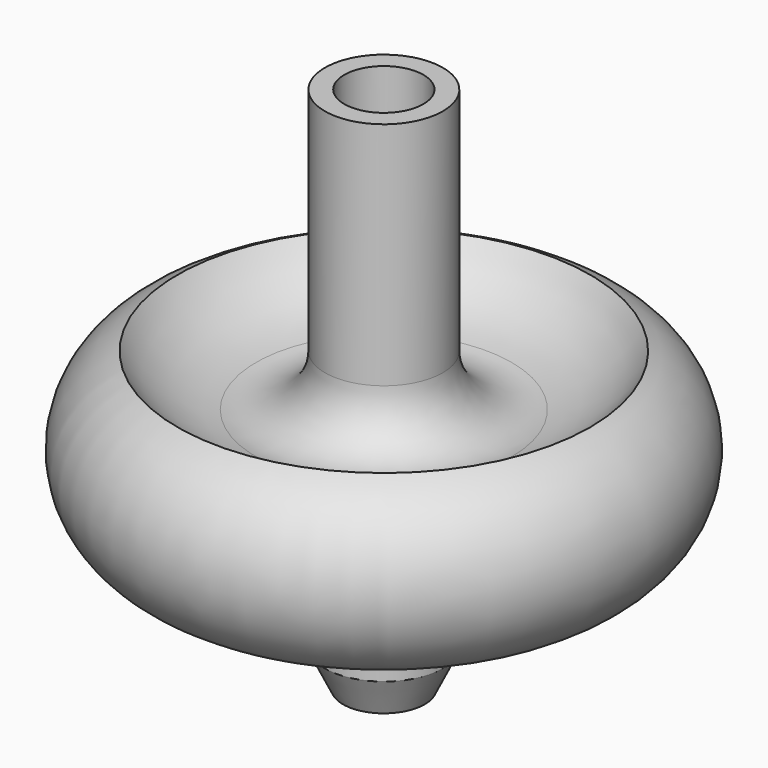
from build123d import *

# Parameters (mm, degrees)
F2_R     = 4.760298
F3_DEPTH = 9.525
F4_R     = 1.578177
F5_DEPTH = 22.225


with BuildPart() as f1:
    # F0 (on Front) → F1 (revolve)
    with BuildSketch(Plane.XZ):
        with BuildLine():
            Line((0, 38.964737), (0, -24.535263))
            Line((0, -24.535263), (4.922395, -24.535263))
            Line((4.922395, -24.535263), (7.092721, -20.039586))
            Line((7.092721, -20.039586), (7.092721, -9.498))
            ThreePointArc((7.092721, -9.498), (15.409558, -6.117437), (23.523532, -9.959494))
            ThreePointArc((23.523532, -9.959494), (31.75, 0.193678), (24.824452, 11.275126))
            ThreePointArc((24.824452, 11.275126), (20.770385, 7.146589), (15.368029, 5.074192))
            ThreePointArc((15.368029, 5.074192), (9.67931, 6.104722), (7.092721, 11.275126))
            Line((7.092721, 11.275126), (7.092721, 38.964737))
            Line((7.092721, 38.964737), (0, 38.964737))
        make_face()
    revolve(axis=Axis((0, 0, 7.214737), (0, 0, 1)))

    # F2 (on face) → F3 (cut)
    with BuildSketch(Plane.XY.offset(38.964737)):
        Circle(F2_R)
    extrude(amount=-F3_DEPTH, mode=Mode.SUBTRACT)

    # F4 (on face) → F5 (cut)
    with BuildSketch(Plane(origin=(0, 0, -24.535263), x_dir=(1, 0, 0), z_dir=(0, 0, -1))):
        Circle(F4_R)
    extrude(amount=-F5_DEPTH, mode=Mode.SUBTRACT)


solid = f1.part
